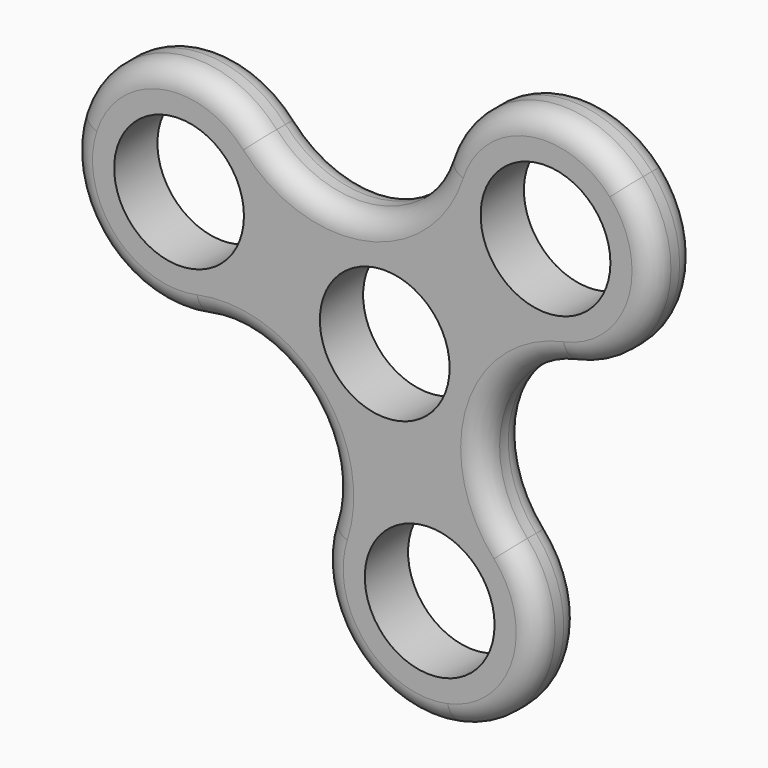
from build123d import *

# Parameters (mm, degrees)
F1_DEPTH = 5
F2_R     = 6
F3_DEPTH = 25
F4_R     = 2
F5_R     = 2


with BuildPart() as f1:
    # F0 (on Front) → F1 (new body)
    with BuildSketch(Plane.XZ):
        with BuildLine():
            ThreePointArc((16.942817, 3.597355), (24.375758, 10.287003), (22.298824, 20.068942))
            ThreePointArc((22.298824, 20.068942), (12.788949, 23.161235), (5.356007, 16.471587))
            ThreePointArc((5.356007, 16.471587), (-2.076934, 9.78194), (-11.586809, 12.874232))
            ThreePointArc((-11.586809, 12.874232), (-21.096685, 15.966524), (-28.529626, 9.276876))
            ThreePointArc((-28.529626, 9.276876), (-26.452692, -0.505063), (-16.942817, -3.597355))
            ThreePointArc((-16.942817, -3.597355), (-7.432941, -6.689647), (-5.356007, -16.471587))
            ThreePointArc((-5.356007, -16.471587), (-3.279073, -26.253527), (6.230802, -29.345819))
            ThreePointArc((6.230802, -29.345819), (13.663743, -22.656172), (11.586809, -12.874232))
            ThreePointArc((11.586809, -12.874232), (9.509875, -3.092292), (16.942817, 3.597355))
        make_face()
    extrude(amount=F1_DEPTH)

    # F2 (on face) → F3 (cut)
    with BuildSketch(Plane.XZ.offset(5)):
        with Locations((-19.019751, 6.184585)):
            Circle(F2_R)
        Circle(F2_R)
        with Locations((14.865883, 13.379295)):
            Circle(F2_R)
        with Locations((4.153868, -19.563879)):
            Circle(F2_R)
    extrude(amount=-F3_DEPTH, mode=Mode.SUBTRACT)

    # F4
    f4_edges = [f1.edges().sort_by_distance(p)[0] for p in [
        (-28.529626, -5, 9.276877),
    ]]
    fillet(f4_edges, radius=F4_R)

    # F5
    f5_edges = [f1.edges().sort_by_distance(p)[0] for p in [
        (-28.529626, 0, 9.276877),
    ]]
    fillet(f5_edges, radius=F5_R)


solid = f1.part
